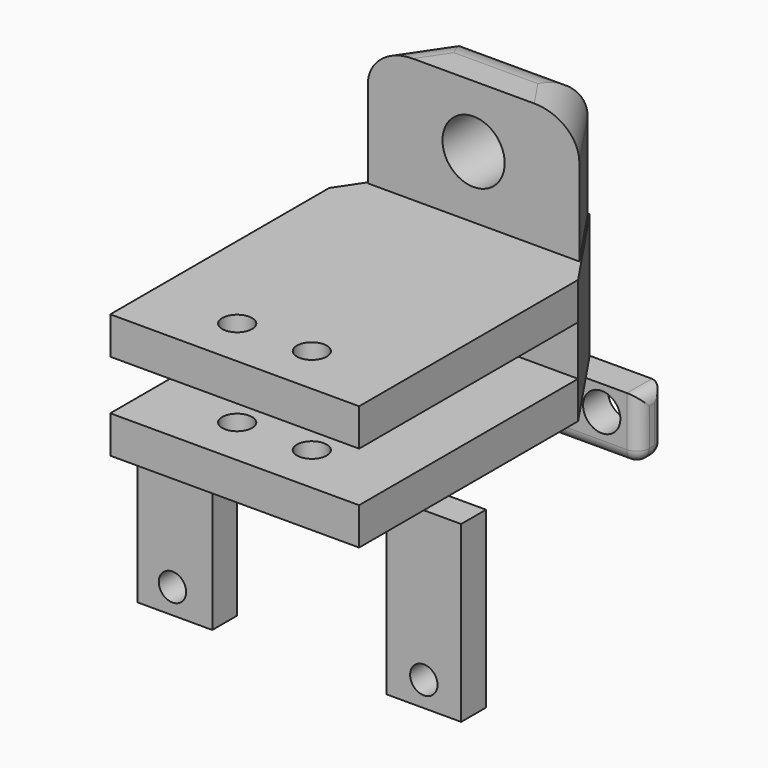
from build123d import *

# Parameters (mm, degrees)
SKETCH_R        = 1.2
PAD_DEPTH       = 3
PAD001_DEPTH    = 10
FILLET_R        = 3
SKETCH002_R     = 2.5
POCKET_DEPTH    = 6
SKETCH003_R     = 1.2
PAD002_DEPTH    = 7
SKETCH004_W     = 20
SKETCH004_H     = 4
POCKET001_DEPTH = 22
PAD003_DEPTH    = 14
SKETCH006_R     = 1.1
POCKET002_DEPTH = 3
PAD004_DEPTH    = 5
SKETCH008_R     = 1.5
POCKET003_DEPTH = 5
FILLET001_R     = 1
POCKET004_DEPTH = 5


with BuildPart() as part:
    # Sketch → Pad (new body)
    with BuildSketch(Plane.XY):
        Polygon((-20, 22), (-20, 0), (0, 0), (0, 22), (-5, 29.412805), (-15, 29.412805), align=None)
        with Locations((-7, 4)):
            Circle(SKETCH_R, mode=Mode.SUBTRACT)
        with Locations((-13, 4)):
            Circle(SKETCH_R, mode=Mode.SUBTRACT)
    extrude(amount=PAD_DEPTH)

    # Sketch001 (on Face10 of Pad) → Pad001 (join)
    with BuildSketch(Plane.XY.offset(3)):
        Polygon((-10, 24), (-1.5, 24), (-5.038419, 29.245922), (-14.961581, 29.245922), (-18.5, 24), align=None)
    extrude(amount=PAD001_DEPTH)

    # Fillet
    fillet_edges = [part.edges().sort_by_distance(p)[0] for p in [
        (-3.26921, 26.622961, 13),
        (-10, 29.245922, 13),
        (-16.73079, 26.622961, 13),
    ]]
    fillet(fillet_edges, radius=FILLET_R)

    # Sketch002 (on Face1 of Fillet) → Pocket (cut)
    with BuildSketch(Plane.XZ.offset(-24)):
        with Locations((-10, 8)):
            Circle(SKETCH002_R)
    extrude(amount=-POCKET_DEPTH, mode=Mode.SUBTRACT)

    # Sketch003 (on Face20 of Pocket) → Pad002 (join)
    with BuildSketch(Plane(origin=(0, 0, 0), x_dir=(1, 0, 0), z_dir=(0, 0, -1))):
        Polygon((0, 0), (-20, 0), (-20, -22), (-15, -29.412805), (-5, -29.412805), (0, -22), align=None)
        with Locations((-13, -4)):
            Circle(SKETCH003_R, mode=Mode.SUBTRACT)
        with Locations((-7, -4)):
            Circle(SKETCH003_R, mode=Mode.SUBTRACT)
    extrude(amount=PAD002_DEPTH)

    # Sketch004 (on Face22 of Pad002) → Pocket001 (cut)
    with BuildSketch(Plane.XZ):
        with Locations((-10, -2)):
            Rectangle(SKETCH004_W, SKETCH004_H)
    extrude(amount=-POCKET001_DEPTH, mode=Mode.SUBTRACT)

    # Sketch005 (on Face26 of Pocket001) → Pad003 (join)
    with BuildSketch(Plane(origin=(0, 0, -7), x_dir=(1, 0, 0), z_dir=(0, 0, -1))):
        Polygon((-10, -6.5), (-23, -6.5), (-23, -9), (-10, -9), (3, -9), (3, -6.5), align=None)
    extrude(amount=PAD003_DEPTH)

    # Sketch006 (on Face33 of Pad003) → Pocket002 (cut)
    with BuildSketch(Plane(origin=(0, 9, 0), x_dir=(-1, 0, 0), z_dir=(0, 1, 0))):
        with Locations((0, -19)):
            Circle(SKETCH006_R)
        with Locations((20.2, -19)):
            Circle(SKETCH006_R)
    extrude(amount=-POCKET002_DEPTH, mode=Mode.SUBTRACT)

    # Sketch007 (on Face26 of Pocket002) → Pad004 (join)
    with BuildSketch(Plane(origin=(0, 0, -7), x_dir=(1, 0, 0), z_dir=(0, 0, -1))):
        Polygon((-10, -26.9), (-21, -26.9), (-21, -29.4), (-10, -29.4), (1, -29.4), (1, -26.9), align=None)
    extrude(amount=PAD004_DEPTH)

    # Sketch008 → Pocket003 (cut)
    with BuildSketch(Plane(origin=(0, 29.4, 0), x_dir=(-1, 0, 0), z_dir=(0, 1, 0))):
        with Locations((2.021394, -9)):
            Circle(SKETCH008_R)
        with Locations((18.020098, -9)):
            Circle(SKETCH008_R)
    extrude(amount=-POCKET003_DEPTH, mode=Mode.SUBTRACT)

    # Fillet001
    fillet001_edges = [part.edges().sort_by_distance(p)[0] for p in [
        (-21, 26.9, -9.5),
        (-21, 29.4, -9.5),
        (-21, 28.15, -7),
        (-21, 28.15, -12),
        (-4.5, 29.4, -12),
        (-15.5, 29.4, -12),
        (-15.5, 26.9, -12),
        (-4.5, 26.9, -12),
        (1, 29.4, -9.5),
        (1, 26.9, -9.5),
        (1, 28.15, -12),
        (1, 28.15, -7),
    ]]
    fillet(fillet001_edges, radius=FILLET001_R)

    # Sketch009 (on Face29 of Fillet001) → Pocket004 (cut)
    with BuildSketch(Plane(origin=(0, 9, 0), x_dir=(-1, 0, 0), z_dir=(0, 1, 0))):
        Polygon((3, -15), (3, -21), (17, -21), (17, -9), (3, -9), align=None)
    extrude(amount=-POCKET004_DEPTH, mode=Mode.SUBTRACT)


solid = part.part
